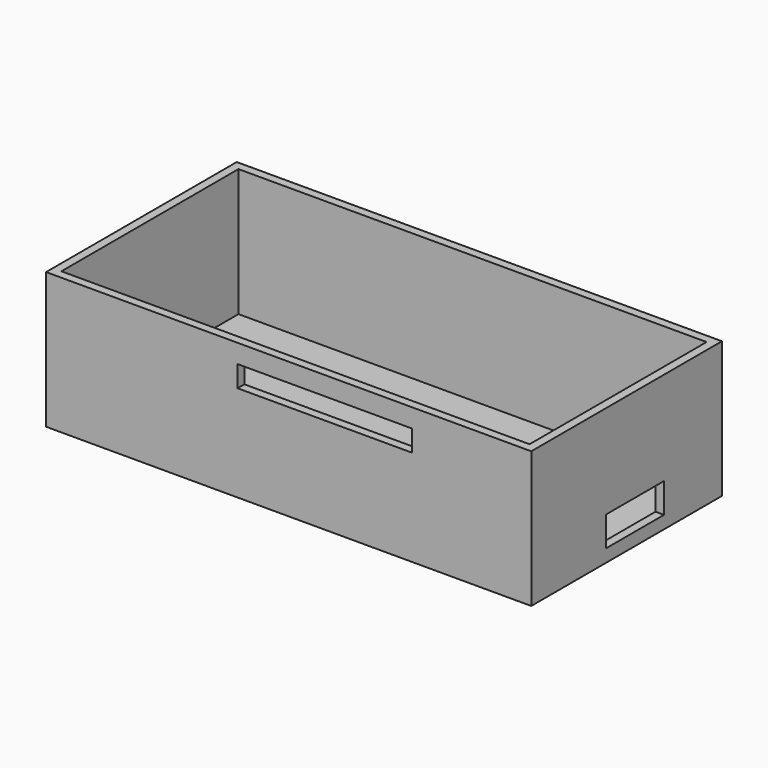
from build123d import *

# Parameters (mm, degrees)
F0_W     = 57
F0_H     = 28
F1_DEPTH = 16
F2_T     = -1
F3_W     = 20.5
F3_H     = 2.5
F4_DEPTH = 3
F5_W     = 8.5
F5_H     = 3.5
F6_DEPTH = 3


with BuildPart() as f1:
    # F0 (on Top) → F1 (new body)
    with BuildSketch(Plane.XY):
        Rectangle(F0_W, F0_H)
    extrude(amount=F1_DEPTH)

    # F2
    f2_openings = [f1.faces().sort_by_distance(p)[0] for p in [
        (0, 0, 16),
    ]]
    offset(amount=F2_T, openings=f2_openings)

    # F3 (on face) → F4 (cut)
    with BuildSketch(Plane.XZ.offset(14)):
        with Locations((4.25, 12.55)):
            Rectangle(F3_W, F3_H)
    extrude(amount=-F4_DEPTH, mode=Mode.SUBTRACT)

    # F5 (on face) → F6 (cut)
    with BuildSketch(Plane.YZ.offset(28.5)):
        with Locations((1.25, 3.25)):
            Rectangle(F5_W, F5_H)
    extrude(amount=-F6_DEPTH, mode=Mode.SUBTRACT)


solid = f1.part
